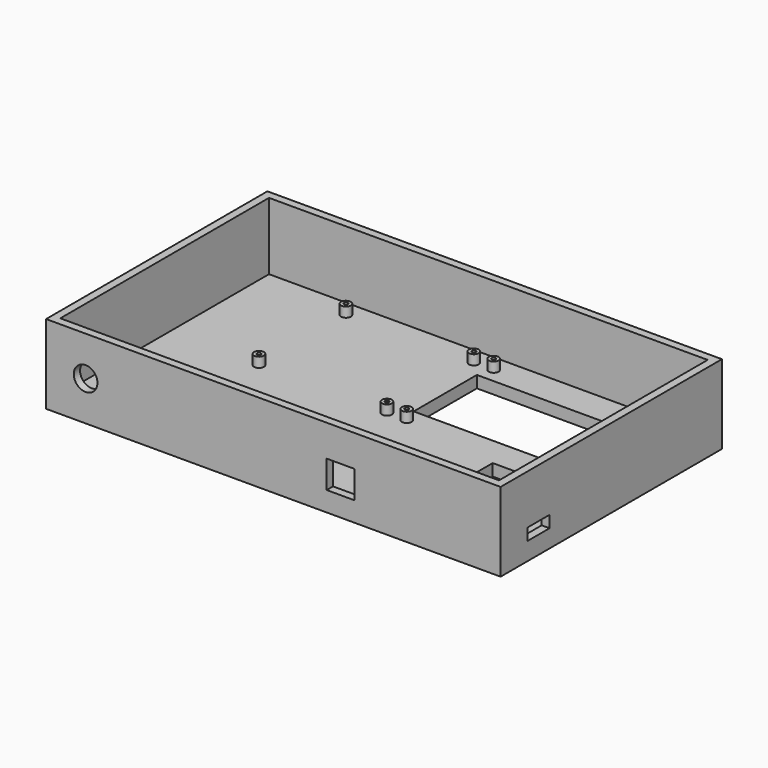
from build123d import *

# Parameters (mm, degrees)
SKETCH_W        = 230
SKETCH_H        = 140
PAD_DEPTH       = 40
SKETCH001_W     = 222
SKETCH001_H     = 132
POCKET_DEPTH    = 34
SKETCH002_W     = 98
SKETCH002_H     = 40
SKETCH002_W_2   = 12
SKETCH002_H_2   = 12
POCKET001_DEPTH = 6.001
SKETCH004_R     = 6
SKETCH004_W     = 14
SKETCH004_H     = 14
POCKET002_DEPTH = 4
SKETCH003_W     = 14
SKETCH003_H     = 6
POCKET003_DEPTH = 4
SKETCH005_R     = 2.5
SKETCH005_R_2   = 1
PAD001_DEPTH    = 5


with BuildPart() as part:
    # Sketch → Pad (new body)
    with BuildSketch(Plane.XY):
        with Locations((115, 70)):
            Rectangle(SKETCH_W, SKETCH_H)
    extrude(amount=PAD_DEPTH)

    # Sketch001 (on Face6 of Pad) → Pocket (cut)
    with BuildSketch(Plane.XY.offset(40)):
        with Locations((115, 70)):
            Rectangle(SKETCH001_W, SKETCH001_H)
    extrude(amount=-POCKET_DEPTH, mode=Mode.SUBTRACT)

    # Sketch002 (on Face11 of Pocket) → Pocket001 (cut, through all)
    with BuildSketch(Plane.XY.offset(6)):
        with Locations((171, 100)):
            Rectangle(SKETCH002_W, SKETCH002_H)
        with Locations((180, 59)):
            Rectangle(SKETCH002_W_2, SKETCH002_H_2)
        with Locations((197, 59)):
            Rectangle(SKETCH002_W_2, SKETCH002_H_2)
        with Locations((214, 59)):
            Rectangle(SKETCH002_W_2, SKETCH002_H_2)
    extrude(amount=-POCKET001_DEPTH, mode=Mode.SUBTRACT)

    # Sketch004 (on Face1 of Pocket001) → Pocket002 (cut)
    with BuildSketch(Plane.XZ):
        with Locations((20, 20)):
            Circle(SKETCH004_R)
        with Locations((149, 17)):
            Rectangle(SKETCH004_W, SKETCH004_H)
    extrude(amount=-POCKET002_DEPTH, mode=Mode.SUBTRACT)

    # Sketch003 (on Face3 of Pocket001) → Pocket003 (cut)
    with BuildSketch(Plane.YZ.offset(230)):
        with Locations((24, 12)):
            Rectangle(SKETCH003_W, SKETCH003_H)
    extrude(amount=-POCKET003_DEPTH, mode=Mode.SUBTRACT)

    # Sketch005 (on Face32 of Pocket002) → Pad001 (join)
    with BuildSketch(Plane.XY.offset(6)):
        with Locations((217.5, 127.5)):
            Circle(SKETCH005_R)
        with Locations((217.5, 127.5)):
            Circle(SKETCH005_R_2, mode=Mode.SUBTRACT)
        with Locations((124.5, 127.5)):
            Circle(SKETCH005_R)
        with Locations((124.5, 127.5)):
            Circle(SKETCH005_R_2, mode=Mode.SUBTRACT)
        with Locations((217.5, 72.5)):
            Circle(SKETCH005_R)
        with Locations((217.5, 72.5)):
            Circle(SKETCH005_R_2, mode=Mode.SUBTRACT)
        with Locations((124.5, 72.5)):
            Circle(SKETCH005_R)
        with Locations((124.5, 72.5)):
            Circle(SKETCH005_R_2, mode=Mode.SUBTRACT)
        with Locations((114.5, 127.5)):
            Circle(SKETCH005_R)
        with Locations((114.5, 127.5)):
            Circle(SKETCH005_R_2, mode=Mode.SUBTRACT)
        with Locations((114.5, 72.5)):
            Circle(SKETCH005_R)
        with Locations((114.5, 72.5)):
            Circle(SKETCH005_R_2, mode=Mode.SUBTRACT)
        with Locations((49.5, 127.8)):
            Circle(SKETCH005_R)
        with Locations((49.5, 127.8)):
            Circle(SKETCH005_R_2, mode=Mode.SUBTRACT)
        with Locations((49.5, 72.8)):
            Circle(SKETCH005_R)
        with Locations((49.5, 72.8)):
            Circle(SKETCH005_R_2, mode=Mode.SUBTRACT)
        with Locations((175.5, 35.5)):
            Circle(SKETCH005_R)
        with Locations((175.5, 35.5)):
            Circle(SKETCH005_R_2, mode=Mode.SUBTRACT)
        with Locations((175.5, 12.5)):
            Circle(SKETCH005_R)
        with Locations((175.5, 12.5)):
            Circle(SKETCH005_R_2, mode=Mode.SUBTRACT)
        with Locations((215, 24)):
            Circle(SKETCH005_R)
        with Locations((195, 24)):
            Circle(SKETCH005_R)
        with Locations((161.5, 7.5)):
            Circle(SKETCH005_R)
        with Locations((161.5, 7.5)):
            Circle(SKETCH005_R_2, mode=Mode.SUBTRACT)
        with Locations((135.5, 7.5)):
            Circle(SKETCH005_R)
        with Locations((135.5, 7.5)):
            Circle(SKETCH005_R_2, mode=Mode.SUBTRACT)
        with Locations((135.5, 43.5)):
            Circle(SKETCH005_R)
        with Locations((135.5, 43.5)):
            Circle(SKETCH005_R_2, mode=Mode.SUBTRACT)
        with Locations((161.5, 43.5)):
            Circle(SKETCH005_R)
        with Locations((161.5, 43.5)):
            Circle(SKETCH005_R_2, mode=Mode.SUBTRACT)
    extrude(amount=PAD001_DEPTH)


solid = part.part
